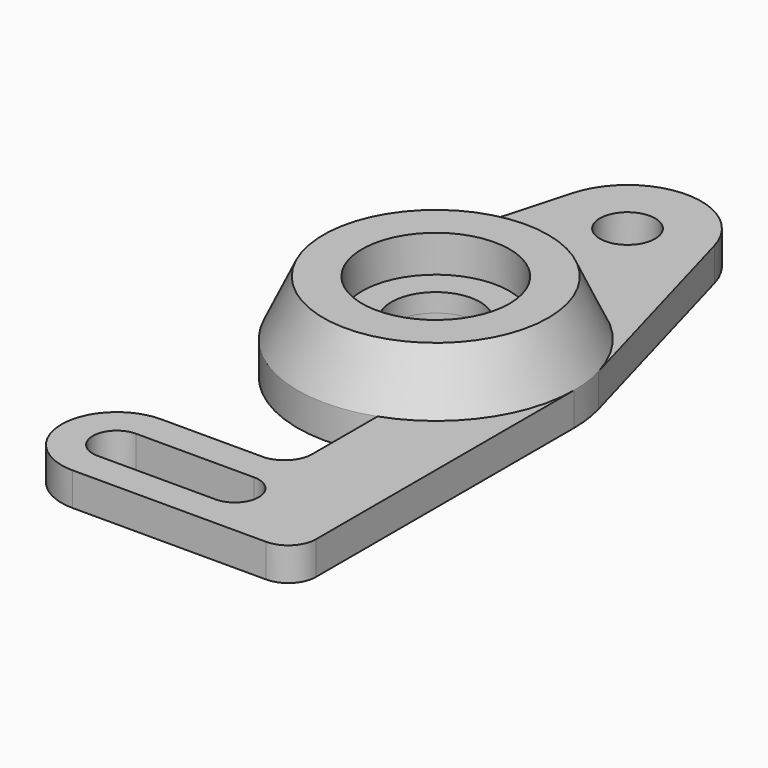
from build123d import *

# Parameters (mm, degrees)
SKETCH_R        = 24
SKETCH_R_2      = 15
PAD_DEPTH       = 18
SKETCH001_R     = 75
PAD001_DEPTH    = 30
PAD001_TAPER    = 25
SKETCH002_R     = 40
POCKET_DEPTH    = 20
POCKET_FACE23_R = 24
POCKET001_DEPTH = 30.001


with BuildPart() as part:
    # Sketch → Pad (new body)
    with BuildSketch(Plane.XY):
        with BuildLine():
            ThreePointArc((-72.230677, 20.192308), (-51.220332, -54.785742), (25, -70.710678))
            Line((25, -115), (25, -70.710678))
            ThreePointArc((10, -130), (20.606602, -125.606602), (25, -115))
            Line((-45, -130), (10, -130))
            ThreePointArc((-45, -130), (-75, -160), (-45, -190))
            Line((60, -190), (-45, -190))
            ThreePointArc((60, -190), (70.606602, -185.606602), (75, -175))
            Line((75, 0), (75, -175))
            ThreePointArc((75, 0), (74.304444, 10.190663), (72.230677, 20.192308))
            Line((38.523028, 140.769231), (72.230677, 20.192308))
            ThreePointArc((38.523028, 140.769231), (0, 170), (-38.523028, 140.769231))
            Line((-38.523028, 140.769231), (-72.230677, 20.192308))
        make_face()
        Circle(SKETCH_R, mode=Mode.SUBTRACT)
        with Locations((0, 130)):
            Circle(SKETCH_R_2, mode=Mode.SUBTRACT)
        with BuildLine():
            ThreePointArc((-45, -147), (-58, -160), (-45, -173))
            Line((-45, -173), (19, -173))
            ThreePointArc((19, -173), (32, -160), (19, -147))
            Line((-45, -147), (19, -147))
        make_face(mode=Mode.SUBTRACT)
    extrude(amount=PAD_DEPTH)

    # Sketch001 (on Face20 of Pad) → Pad001 (join)
    with BuildSketch(Plane.XY.offset(18)):
        Circle(SKETCH001_R)
    extrude(amount=PAD001_DEPTH, taper=PAD001_TAPER)

    # Sketch002 (on Face24 of Pad001) → Pocket (cut)
    with BuildSketch(Plane.XY.offset(48)):
        Circle(SKETCH002_R)
    extrude(amount=-POCKET_DEPTH, mode=Mode.SUBTRACT)

    # Pocket Face23 → Pocket001 (cut, through all)
    with BuildSketch(Plane(origin=(0, 0, 18), x_dir=(0, -1, 0), z_dir=(0, 0, -1))):
        Circle(POCKET_FACE23_R)
    extrude(amount=-POCKET001_DEPTH, mode=Mode.SUBTRACT)


solid = part.part
